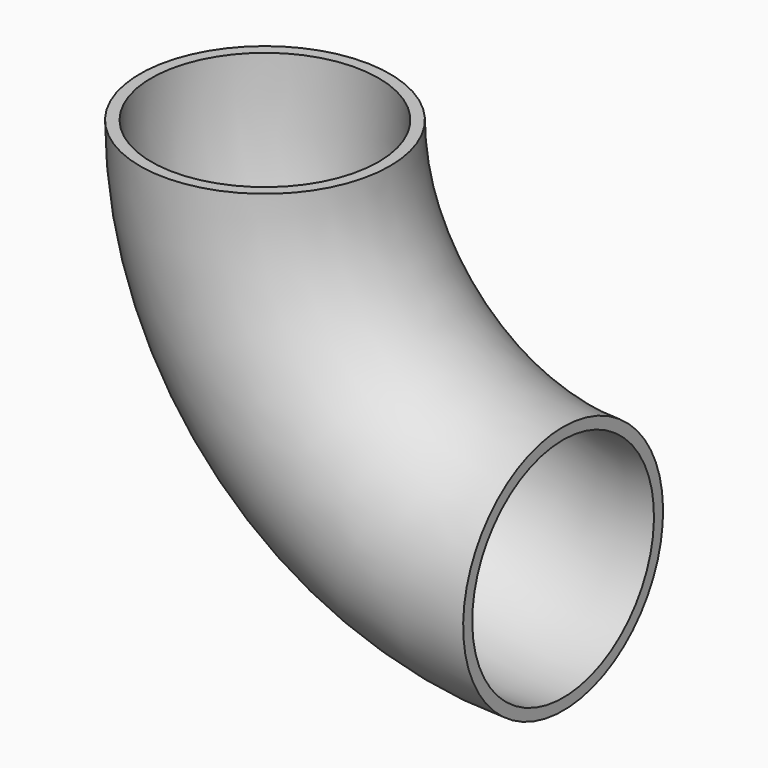
from build123d import *

# Parameters (mm, degrees)
F0_R     = 69.85
F0_R_2   = 63.5
F1_ANGLE = 90


with BuildPart() as f1:
    # F0 (on Top) → F1 (revolve)
    with BuildSketch(Plane.XY):
        Circle(F0_R)
        Circle(F0_R_2, mode=Mode.SUBTRACT)
    revolve(axis=Axis((166.6875, -1.052162, 0), (0, -1, 0)), revolution_arc=F1_ANGLE)


solid = f1.part
